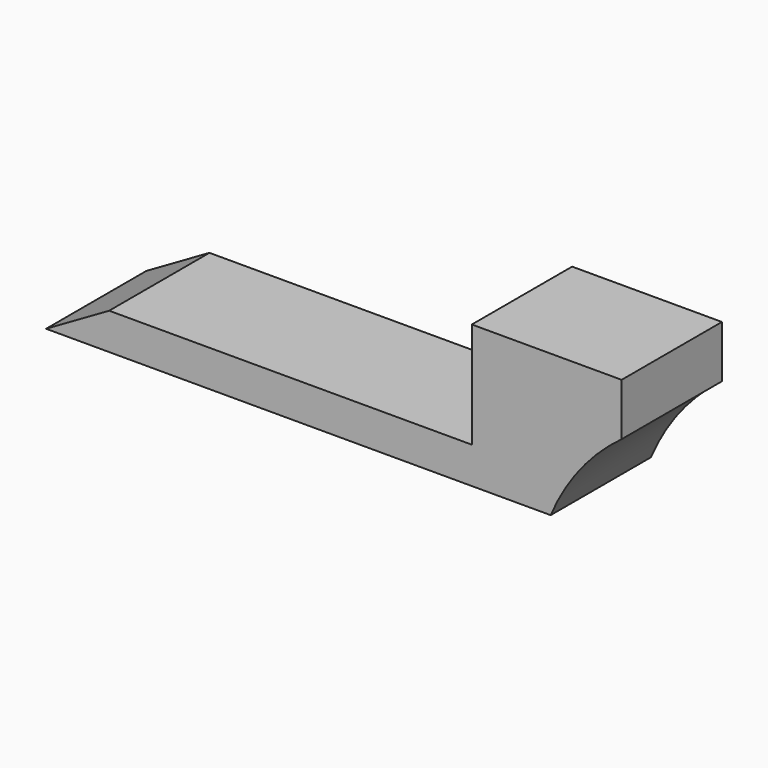
from build123d import *

# Parameters (mm, degrees)
F1_DEPTH = 7.95


with BuildPart() as f1:
    # F0 (on Front) → F1 (new body)
    with BuildSketch(Plane.XZ):
        with BuildLine():
            Line((4, 2.309401), (0, 0))
            Line((0, 0), (25.413539, 0))
            Line((25.413539, 0), (32, 0))
            ThreePointArc((32, 0), (33.863776, 3.157224), (36.5, 5.705172))
            Line((36.5, 5.705172), (36.5, 9.02))
            Line((36.5, 9.02), (27, 9.02))
            Line((27, 9.02), (27, 4.098076))
            Line((27, 4.098076), (27, 2.309401))
            Line((27, 2.309401), (4, 2.309401))
        make_face()
    extrude(amount=F1_DEPTH)


solid = f1.part
